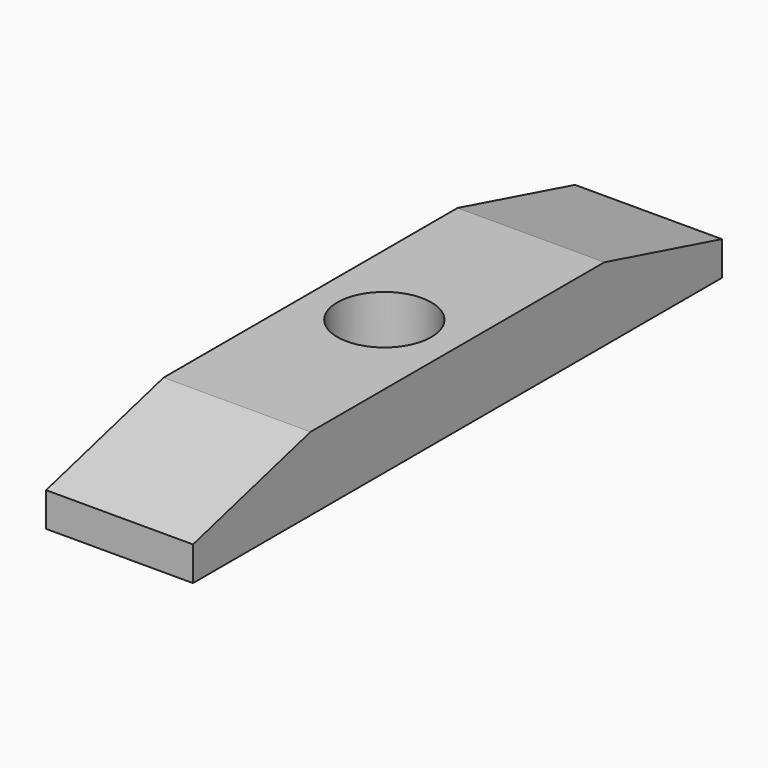
from build123d import *

# Parameters (mm, degrees)
F0_W     = 25.4
F0_H     = 114.3
F1_DEPTH = 12.7
F2_R     = 8.128
F3_DEPTH = 10.668
F4_SIZE2 = 6.8059094878
F4_SIZE  = 25.4
F5_SIZE2 = 6.8059094878
F5_SIZE  = 25.4


with BuildPart() as f1:
    # F0 (on Top) → F1 (new body)
    with BuildSketch(Plane.XY):
        Rectangle(F0_W, F0_H)
    extrude(amount=F1_DEPTH)

    # F2 (on face) → F3 (cut)
    with BuildSketch(Plane.XY.offset(12.7)):
        with Locations((0, 0.0748441894)):
            Circle(F2_R)
    extrude(amount=-F3_DEPTH, mode=Mode.SUBTRACT)

    # F4
    f4_edges = [f1.edges().sort_by_distance(p)[0] for p in [
        (0, 57.15, 12.7),
    ]]
    f4_side = f1.faces().sort_by_distance((11.529118, 0, 12.7))[0]
    chamfer(f4_edges, length=F4_SIZE, length2=F4_SIZE2, reference=f4_side)

    # F5
    f5_edges = [f1.edges().sort_by_distance(p)[0] for p in [
        (0, -57.15, 12.7),
    ]]
    f5_side = f1.faces().sort_by_distance((0, -13.993035, 12.7))[0]
    chamfer(f5_edges, length=F5_SIZE, length2=F5_SIZE2, reference=f5_side)


solid = f1.part
